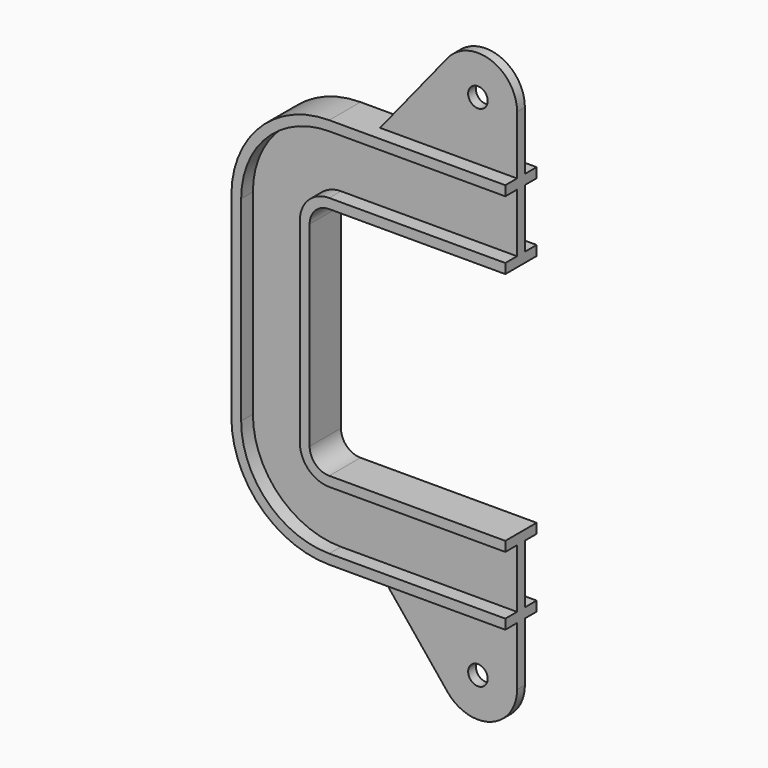
from build123d import *

# Parameters (mm, degrees)
F4_R     = 5
F5_DEPTH = 2.5


with BuildPart() as f2:
    # F2: sweep along a path in F0
    with BuildLine(Plane.XZ) as f2_path:
        Line((0, 60), (-90, 60))
        ThreePointArc((-90, 60), (-97.071068, 57.071068), (-100, 50))
        Line((-100, 50), (-100, 0))
    # F1 (on Right) → F2 (sweep)
    with BuildSketch(Plane.YZ):
        Polygon((-10, 60), (0, 60), (10, 60), (10, 65), (2.5, 65), (2.5, 95), (10, 95), (10, 100), (0, 100), (-10, 100), (-10, 95), (-2.5, 95), (-2.5, 65), (-10, 65), align=None)
    sweep(path=f2_path.line)

    # F3: F2 across plane


with BuildPart() as f2_1:
    add(f2.part)
    add(f2.part.mirror(Plane.XY))

    # F4 (on Front) → F5 (join, symmetric)
    with BuildSketch(Plane.XZ):
        with BuildLine():
            Line((-70, 100), (0, 100))
            Line((0, 100), (0, 130))
            ThreePointArc((0, 130), (-13.327703, 148.854189), (-35.548045, 142.580075))
            Line((-35.548045, 142.580075), (-70, 100))
        make_face()
        with Locations((-20, 130)):
            Circle(F4_R, mode=Mode.SUBTRACT)
    extrude(amount=F5_DEPTH, both=True)

    # F6: F2 across plane


with BuildPart() as f2_2:
    add(f2_1.part)
    add(f2_1.part.mirror(Plane.XY))


solid = f2_2.part
